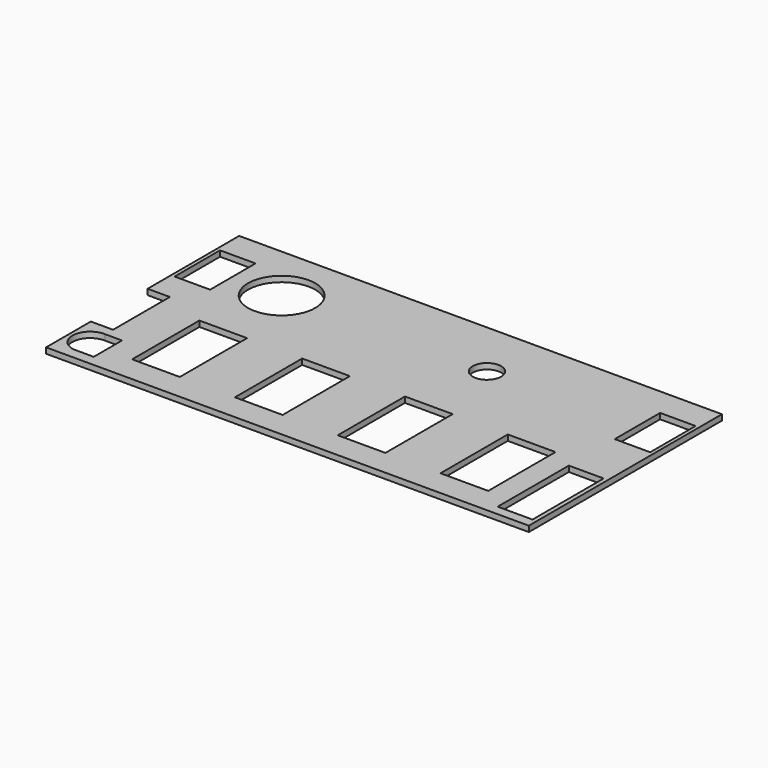
from build123d import *

# Parameters (mm, degrees)
F0_W     = 215.9
F0_H     = 107.95
F1_DEPTH = 2.54
F2_R     = 15.0114
F2_W     = 21.336
F2_H     = 37.592
F2_R_2   = 6.35
F3_DEPTH = 25.4
F4_W     = 15.875
F4_H     = 25.4
F4_W_2   = 15.588598
F4_H_2   = 39.783249
F5_DEPTH = 25.4
F6_W     = 9.954944
F6_H     = 31.75
F7_DEPTH = 25.4


with BuildPart() as f1:
    # F0 (on Top) → F1 (new body)
    with BuildSketch(Plane.XY):
        with Locations((107.95, -53.975)):
            Rectangle(F0_W, F0_H)
    extrude(amount=F1_DEPTH)

    # F2 (on face) → F3 (cut)
    with BuildSketch(Plane.XY):
        with Locations((39.7979, -26.005359)):
            Circle(F2_R)
        with Locations((39.7979, -77.462117)):
            Rectangle(F2_W, F2_H)
        with Locations((85.7719, -77.462117)):
            Rectangle(F2_W, F2_H)
        with Locations((131.7459, -77.462117)):
            Rectangle(F2_W, F2_H)
        with Locations((177.7199, -77.462117)):
            Rectangle(F2_W, F2_H)
        with Locations((131.603076, -25.982544)):
            Circle(F2_R_2)
    extrude(amount=F3_DEPTH, mode=Mode.SUBTRACT)

    # F4 (on face) → F5 (cut)
    with BuildSketch(Plane.XY.offset(2.54)):
        with Locations((9.5377, -25.4)):
            Rectangle(F4_W, F4_H)
        with BuildLine():
            Line((17.4752, -87.323474), (9.954944, -87.323474))
            ThreePointArc((9.954944, -87.323474), (1.603036, -95.462154), (10.377918, -103.142904))
            Line((10.377918, -103.142904), (17.4752, -103.142904))
            Line((17.4752, -103.142904), (17.4752, -87.323474))
        make_face()
        with Locations((206.3623, -25.4)):
            Rectangle(F4_W, F4_H)
        with Locations((206.219099, -83.631156)):
            Rectangle(F4_W_2, F4_H_2)
    extrude(amount=-F5_DEPTH, mode=Mode.SUBTRACT)

    # F6 (on face) → F7 (cut)
    with BuildSketch(Plane.XY.offset(2.54)):
        with Locations((4.977472, -67.070287)):
            Rectangle(F6_W, F6_H)
    extrude(amount=-F7_DEPTH, mode=Mode.SUBTRACT)


solid = f1.part
